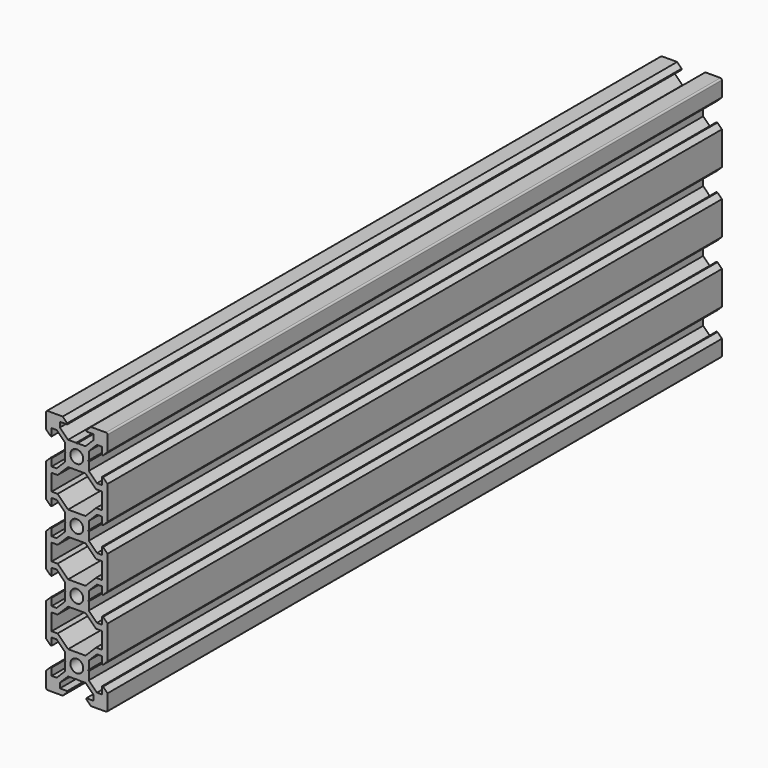
from build123d import *

# Parameters (mm, degrees)
F0_R     = 2.1
F1_DEPTH = 250


with BuildPart() as f1:
    # F0 (on Front) → F1 (new body)
    with BuildSketch(Plane.XZ):
        with BuildLine():
            Line((-3.9, 29.79), (-3.9, 27.16066))
            Line((-3.9, 27.16066), (-6.56066, 24.5))
            Line((-6.56066, 24.5), (-8.2, 24.5))
            Line((-8.2, 24.5), (-8.2, 26.875))
            Line((-8.2, 26.875), (-8.545, 26.875))
            Line((-8.545, 26.875), (-10, 25.42))
            Line((-10, 25.42), (-10, 14.58))
            Line((-10, 14.58), (-8.545, 13.125))
            Line((-8.545, 13.125), (-8.2, 13.125))
            Line((-8.2, 13.125), (-8.2, 15.5))
            Line((-8.2, 15.5), (-6.56066, 15.5))
            Line((-6.56066, 15.5), (-3.9, 12.83934))
            Line((-3.9, 12.83934), (-3.9, 10.21))
            Line((-3.9, 10.21), (-3.69, 10))
            Line((-3.69, 10), (-3.9, 9.79))
            Line((-3.9, 9.79), (-3.9, 7.16066))
            Line((-3.9, 7.16066), (-6.56066, 4.5))
            Line((-6.56066, 4.5), (-8.2, 4.5))
            Line((-8.2, 4.5), (-8.2, 6.875))
            Line((-8.2, 6.875), (-8.545, 6.875))
            Line((-8.545, 6.875), (-10, 5.42))
            Line((-10, 5.42), (-10, -5.42))
            Line((-10, -5.42), (-8.545, -6.875))
            Line((-8.545, -6.875), (-8.2, -6.875))
            Line((-8.2, -6.875), (-8.2, -4.5))
            Line((-8.2, -4.5), (-6.56066, -4.5))
            Line((-6.56066, -4.5), (-3.9, -7.16066))
            Line((-3.9, -7.16066), (-3.9, -9.79))
            Line((-3.9, -9.79), (-3.69, -10))
            Line((-3.69, -10), (-3.9, -10.21))
            Line((-3.9, -10.21), (-3.9, -12.83934))
            Line((-3.9, -12.83934), (-6.56066, -15.5))
            Line((-6.56066, -15.5), (-8.2, -15.5))
            Line((-8.2, -15.5), (-8.2, -13.125))
            Line((-8.2, -13.125), (-8.545, -13.125))
            Line((-8.545, -13.125), (-10, -14.58))
            Line((-10, -14.58), (-10, -25.42))
            Line((-10, -25.42), (-8.545, -26.875))
            Line((-8.545, -26.875), (-8.2, -26.875))
            Line((-8.2, -26.875), (-8.2, -24.5))
            Line((-8.2, -24.5), (-6.56066, -24.5))
            Line((-6.56066, -24.5), (-3.9, -27.16066))
            Line((-3.9, -27.16066), (-3.9, -29.79))
            Line((-3.9, -29.79), (-3.69, -30))
            Line((-3.69, -30), (-3.9, -30.21))
            Line((-3.9, -30.21), (-3.9, -32.83934))
            Line((-3.9, -32.83934), (-6.56066, -35.5))
            Line((-6.56066, -35.5), (-8.2, -35.5))
            Line((-8.2, -35.5), (-8.2, -33.125))
            Line((-8.2, -33.125), (-8.545, -33.125))
            Line((-8.545, -33.125), (-10, -34.58))
            Line((-10, -34.58), (-10, -39.5))
            ThreePointArc((-10, -39.5), (-9.853553, -39.853553), (-9.5, -40))
            Line((-9.5, -40), (-4.58, -40))
            Line((-4.58, -40), (-3.125, -38.545))
            Line((-3.125, -38.545), (-3.125, -38.2))
            Line((-3.125, -38.2), (-5.5, -38.2))
            Line((-5.5, -38.2), (-5.5, -36.56066))
            Line((-5.5, -36.56066), (-2.83934, -33.9))
            Line((-2.83934, -33.9), (-0.21, -33.9))
            Line((-0.21, -33.9), (0, -33.69))
            Line((0, -33.69), (0.21, -33.9))
            Line((0.21, -33.9), (2.83934, -33.9))
            Line((2.83934, -33.9), (5.5, -36.56066))
            Line((5.5, -36.56066), (5.5, -38.2))
            Line((5.5, -38.2), (3.125, -38.2))
            Line((3.125, -38.2), (3.125, -38.545))
            Line((3.125, -38.545), (4.58, -40))
            Line((4.58, -40), (9.5, -40))
            ThreePointArc((9.5, -40), (9.853553, -39.853553), (10, -39.5))
            Line((10, -39.5), (10, -34.58))
            Line((10, -34.58), (8.545, -33.125))
            Line((8.545, -33.125), (8.2, -33.125))
            Line((8.2, -33.125), (8.2, -35.5))
            Line((8.2, -35.5), (6.56066, -35.5))
            Line((6.56066, -35.5), (3.9, -32.83934))
            Line((3.9, -32.83934), (3.9, -30.21))
            Line((3.9, -30.21), (3.69, -30))
            Line((3.69, -30), (3.9, -29.79))
            Line((3.9, -29.79), (3.9, -27.16066))
            Line((3.9, -27.16066), (6.56066, -24.5))
            Line((6.56066, -24.5), (8.2, -24.5))
            Line((8.2, -24.5), (8.2, -26.875))
            Line((8.2, -26.875), (8.545, -26.875))
            Line((8.545, -26.875), (10, -25.42))
            Line((10, -25.42), (10, -14.58))
            Line((10, -14.58), (8.545, -13.125))
            Line((8.545, -13.125), (8.2, -13.125))
            Line((8.2, -13.125), (8.2, -15.5))
            Line((8.2, -15.5), (6.56066, -15.5))
            Line((6.56066, -15.5), (3.9, -12.83934))
            Line((3.9, -12.83934), (3.9, -10.21))
            Line((3.9, -10.21), (3.69, -10))
            Line((3.69, -10), (3.9, -9.79))
            Line((3.9, -9.79), (3.9, -7.16066))
            Line((3.9, -7.16066), (6.56066, -4.5))
            Line((6.56066, -4.5), (8.2, -4.5))
            Line((8.2, -4.5), (8.2, -6.875))
            Line((8.2, -6.875), (8.545, -6.875))
            Line((8.545, -6.875), (10, -5.42))
            Line((10, -5.42), (10, 5.42))
            Line((10, 5.42), (8.545, 6.875))
            Line((8.545, 6.875), (8.2, 6.875))
            Line((8.2, 6.875), (8.2, 4.5))
            Line((8.2, 4.5), (6.56066, 4.5))
            Line((6.56066, 4.5), (3.9, 7.16066))
            Line((3.9, 7.16066), (3.9, 9.79))
            Line((3.9, 9.79), (3.69, 10))
            Line((3.69, 10), (3.9, 10.21))
            Line((3.9, 10.21), (3.9, 12.83934))
            Line((3.9, 12.83934), (6.56066, 15.5))
            Line((6.56066, 15.5), (8.2, 15.5))
            Line((8.2, 15.5), (8.2, 13.125))
            Line((8.2, 13.125), (8.545, 13.125))
            Line((8.545, 13.125), (10, 14.58))
            Line((10, 14.58), (10, 25.42))
            Line((10, 25.42), (8.545, 26.875))
            Line((8.545, 26.875), (8.2, 26.875))
            Line((8.2, 26.875), (8.2, 24.5))
            Line((8.2, 24.5), (6.56066, 24.5))
            Line((6.56066, 24.5), (3.9, 27.16066))
            Line((3.9, 27.16066), (3.9, 29.79))
            Line((3.9, 29.79), (3.69, 30))
            Line((3.69, 30), (3.9, 30.21))
            Line((3.9, 30.21), (3.9, 32.83934))
            Line((3.9, 32.83934), (6.56066, 35.5))
            Line((6.56066, 35.5), (8.2, 35.5))
            Line((8.2, 35.5), (8.2, 33.125))
            Line((8.2, 33.125), (8.545, 33.125))
            Line((8.545, 33.125), (10, 34.58))
            Line((10, 34.58), (10, 39.5))
            ThreePointArc((10, 39.5), (9.853553, 39.853553), (9.5, 40))
            Line((9.5, 40), (4.58, 40))
            Line((4.58, 40), (3.125, 38.545))
            Line((3.125, 38.545), (3.125, 38.2))
            Line((3.125, 38.2), (5.5, 38.2))
            Line((5.5, 38.2), (5.5, 36.56066))
            Line((5.5, 36.56066), (2.83934, 33.9))
            Line((2.83934, 33.9), (0.21, 33.9))
            Line((0.21, 33.9), (0, 33.69))
            Line((0, 33.69), (-0.21, 33.9))
            Line((-0.21, 33.9), (-2.83934, 33.9))
            Line((-2.83934, 33.9), (-5.5, 36.56066))
            Line((-5.5, 36.56066), (-5.5, 38.2))
            Line((-5.5, 38.2), (-3.125, 38.2))
            Line((-3.125, 38.2), (-3.125, 38.545))
            Line((-3.125, 38.545), (-4.58, 40))
            Line((-4.58, 40), (-9.5, 40))
            ThreePointArc((-9.5, 40), (-9.853553, 39.853553), (-10, 39.5))
            Line((-10, 39.5), (-10, 34.58))
            Line((-10, 34.58), (-8.545, 33.125))
            Line((-8.545, 33.125), (-8.2, 33.125))
            Line((-8.2, 33.125), (-8.2, 35.5))
            Line((-8.2, 35.5), (-6.56066, 35.5))
            Line((-6.56066, 35.5), (-3.9, 32.83934))
            Line((-3.9, 32.83934), (-3.9, 30.21))
            Line((-3.9, 30.21), (-3.69, 30))
            Line((-3.69, 30), (-3.9, 29.79))
        make_face()
        with Locations((0, -30)):
            Circle(F0_R, mode=Mode.SUBTRACT)
        Polygon((6.23934, -22.7), (2.83934, -26.1), (-2.83934, -26.1), (-6.23934, -22.7), (-8.2, -22.7), (-8.2, -17.3), (-6.23934, -17.3), (-2.83934, -13.9), (2.83934, -13.9), (6.23934, -17.3), (8.2, -17.3), (8.2, -22.7), align=None, mode=Mode.SUBTRACT)
        with Locations((0, -10)):
            Circle(F0_R, mode=Mode.SUBTRACT)
        Polygon((6.23934, -2.7), (2.83934, -6.1), (-2.83934, -6.1), (-6.23934, -2.7), (-8.2, -2.7), (-8.2, 2.7), (-6.23934, 2.7), (-2.83934, 6.1), (2.83934, 6.1), (6.23934, 2.7), (8.2, 2.7), (8.2, -2.7), align=None, mode=Mode.SUBTRACT)
        with Locations((0, 10)):
            Circle(F0_R, mode=Mode.SUBTRACT)
        Polygon((6.23934, 17.3), (2.83934, 13.9), (-2.83934, 13.9), (-6.23934, 17.3), (-8.2, 17.3), (-8.2, 22.7), (-6.23934, 22.7), (-2.83934, 26.1), (2.83934, 26.1), (6.23934, 22.7), (8.2, 22.7), (8.2, 17.3), align=None, mode=Mode.SUBTRACT)
        with Locations((0, 30)):
            Circle(F0_R, mode=Mode.SUBTRACT)
    extrude(amount=F1_DEPTH)


solid = f1.part
